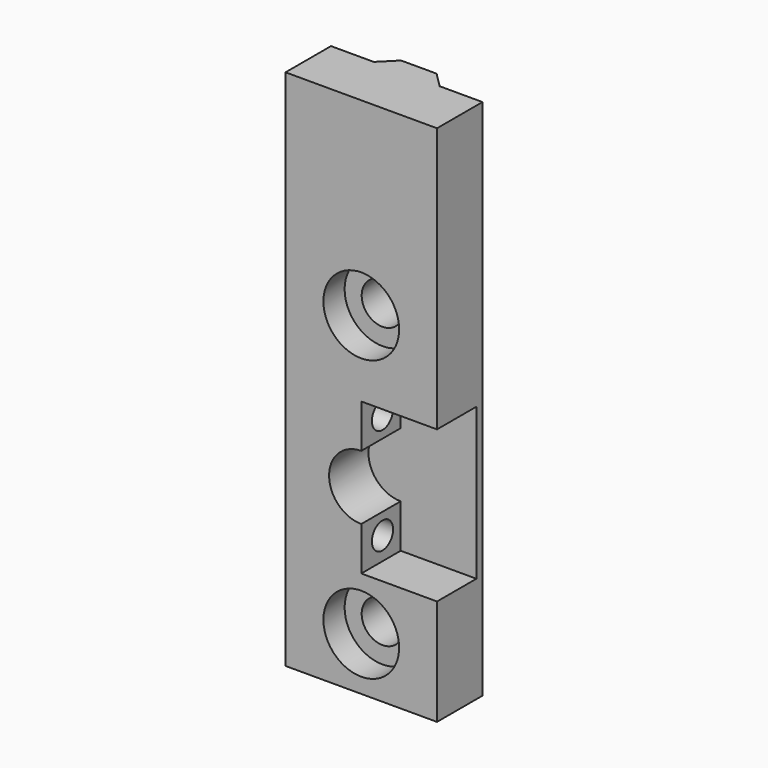
from build123d import *

# Parameters (mm, degrees)
SKETCH510_W          = 20
SKETCH510_H          = 69
PAD114_DEPTH         = 7.5
PAD115_DEPTH         = 45
PAD115_DEPTH_BACK    = 24
POCKET361_DEPTH      = 6.501
SKETCH637_R          = 1.75
POCKET459_DEPTH      = 6.7
POCKET461_DEPTH      = 3.001
SKETCH642_W          = 2
SKETCH642_H          = 14
POCKET462_DEPTH      = 10.001
POCKET462_DEPTH_BACK = 10.001
SKETCH641_R          = 2.75
POCKET463_DEPTH      = 7.501
SKETCH643_R          = 5
POCKET464_DEPTH      = 3.501


with BuildPart() as xy_rod_mount_left:
    # Sketch510 → Pad114 (new body)
    with BuildSketch(Plane.XZ):
        with Locations((0, 10.5)):
            Rectangle(SKETCH510_W, SKETCH510_H)
    extrude(amount=PAD114_DEPTH)

    # Sketch511 → Pad115 (join, two sides)
    with BuildSketch(Plane.XY) as pad115_sk:
        Polygon((-4.346447, 0), (-2.346447, 2), (2.346447, 2), (4.346447, 0), align=None)
    extrude(amount=PAD115_DEPTH)
    extrude(pad115_sk.sketch, amount=-PAD115_DEPTH_BACK)

    # Sketch512 → Pocket361 (cut, through all)
    with BuildSketch(Plane.XZ.offset(1)):
        with BuildLine():
            ThreePointArc((0, -4.25), (4.25, 0), (0, 4.25))
            Line((0, 4.25), (0, 10))
            Line((0, 10), (-10, 10))
            Line((-10, 10), (-10, -10))
            Line((0, -10), (-10, -10))
            Line((0, -4.25), (0, -10))
        make_face()
    extrude(amount=POCKET361_DEPTH, mode=Mode.SUBTRACT)

    # Sketch637 → Pocket459 (cut)
    with BuildSketch(Plane.YZ):
        with Locations((-4, 7)):
            Circle(SKETCH637_R)
        with Locations((-4, -7)):
            Circle(SKETCH637_R)
    extrude(amount=POCKET459_DEPTH, mode=Mode.SUBTRACT)

    # Sketch640 → Pocket461 (cut, through all)
    with BuildSketch(Plane.YZ.offset(7)):
        Polygon((-1.25, 5.412287), (-1.25, 8.587713), (-4, 10.175426), (-6.75, 8.587713), (-6.75, 5.412287), (-4, 3.824574), align=None)
        Polygon((-1.25, -8.587713), (-1.25, -5.412287), (-4, -3.824574), (-6.75, -5.412287), (-6.75, -8.587713), (-4, -10.175426), align=None)
    extrude(amount=POCKET461_DEPTH, mode=Mode.SUBTRACT)

    # Sketch642 → Pocket462 (cut, two sides)
    with BuildSketch(Plane.YZ) as pocket462_sk:
        with Locations((1, 20)):
            Rectangle(SKETCH642_W, SKETCH642_H)
        with Locations((1, -17)):
            Rectangle(SKETCH642_W, SKETCH642_H)
    extrude(amount=-POCKET462_DEPTH, mode=Mode.SUBTRACT)
    extrude(pocket462_sk.sketch, amount=POCKET462_DEPTH_BACK, mode=Mode.SUBTRACT)

    # Sketch641 → Pocket463 (cut, through all)
    with BuildSketch(Plane.XZ):
        with Locations((0, 20)):
            Circle(SKETCH641_R)
        with Locations((0, -17)):
            Circle(SKETCH641_R)
    extrude(amount=POCKET463_DEPTH, mode=Mode.SUBTRACT)

    # Sketch643 → Pocket464 (cut, through all)
    with BuildSketch(Plane.XZ.offset(4)):
        with Locations((0, 20)):
            Circle(SKETCH643_R)
        with Locations((0, -17)):
            Circle(SKETCH643_R)
    extrude(amount=POCKET464_DEPTH, mode=Mode.SUBTRACT)


with BuildPart() as xy_rod_mount_left_1:
    # Body178 placement: moved
    add(xy_rod_mount_left.part.moved(Location((-160, 150, 0))))


with BuildPart() as xy_rod_mount_right:
    # Part__Mirroring082: instance of xy-rod-mount-left
    add(xy_rod_mount_left_1.part.mirror(Plane(origin=(0, 0, 0), x_dir=(0, -1, 0), z_dir=(1, 0, 0))))


solid = xy_rod_mount_right.part
